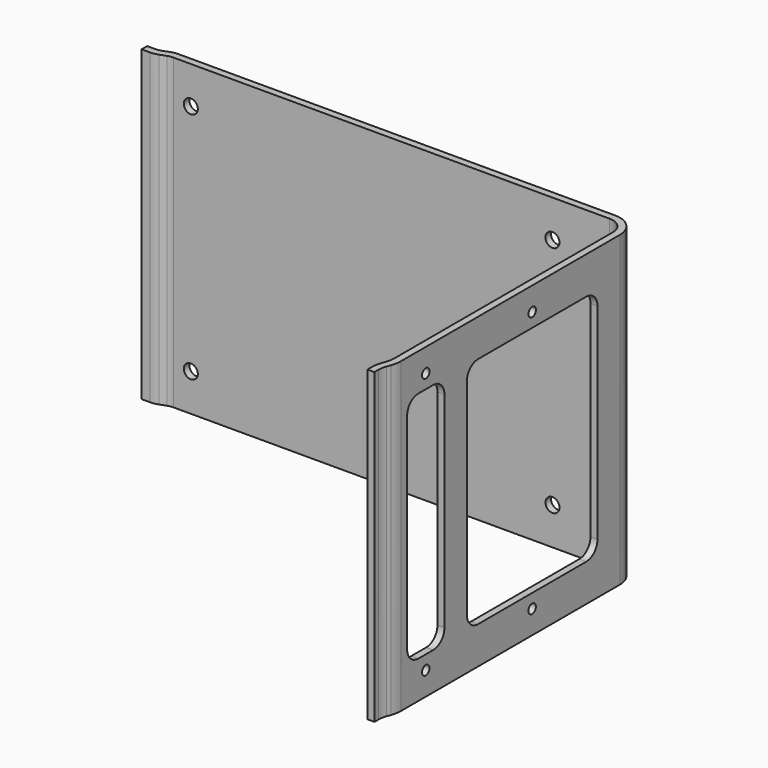
from build123d import *

# Parameters (mm, degrees)
F1_DEPTH  = 66
F2_R      = 1.5
F3_DEPTH  = 25
F4_R      = 1
F5_DEPTH  = 25
F6_R      = 5
F7_R      = 6.5
F8_W      = 7
F8_H      = 48
F9_DEPTH  = 100
F11_DEPTH = 66


with BuildPart() as f1:
    # F0 (on Top) → F1 (new body)
    with BuildSketch(Plane.XY):
        with BuildLine():
            Line((54.5, 33), (54.5, -26.488032))
            Line((54.5, -26.488032), (53.5, -29.23551))
            Line((53.5, -29.23551), (53.5, -31.5))
            Line((53.5, -31.5), (55, -31.5))
            Line((55, -31.5), (55, -29.5))
            Line((55, -29.5), (56, -26.752523))
            Line((56, -26.752523), (56, 33))
            ThreePointArc((56, 33), (54.535534, 36.535534), (51, 38))
            Line((51, 38), (-42.5, 38))
            ThreePointArc((-42.5, 38), (-46.035534, 36.535534), (-47.5, 33))
            Line((-47.5, 33), (-47.5, 0))
            Line((-47.5, 0), (-46, 0))
            Line((-46, 0), (-46, 33))
            ThreePointArc((-46, 33), (-44.974874, 35.474874), (-42.5, 36.5))
            Line((-42.5, 36.5), (51, 36.5))
            ThreePointArc((51, 36.5), (53.474874, 35.474874), (54.5, 33))
        make_face()
    extrude(amount=F1_DEPTH)

    # F2 (on face) → F3 (cut)
    with BuildSketch(Plane(origin=(0, 38, 0), x_dir=(-1, 0, 0), z_dir=(0, 1, 0))):
        with Locations((-38.75, 58)):
            Circle(F2_R)
        with Locations((-38.75, 8)):
            Circle(F2_R)
        with Locations((38.75, 8)):
            Circle(F2_R)
        with Locations((38.75, 58)):
            Circle(F2_R)
    extrude(amount=-F3_DEPTH, mode=Mode.SUBTRACT)

    # F4 (on face) → F5 (cut)
    with BuildSketch(Plane.YZ.offset(56)):
        with BuildLine():
            Line((-17, 58), (-21, 58))
            ThreePointArc((-21, 58), (-23.12132, 57.12132), (-24, 55))
            Line((-24, 55), (-24, 11))
            ThreePointArc((-24, 11), (-23.12132, 8.87868), (-21, 8))
            Line((-21, 8), (-17, 8))
            ThreePointArc((-17, 8), (-14.87868, 8.87868), (-14, 11))
            Line((-14, 11), (-14, 55))
            ThreePointArc((-14, 55), (-14.87868, 57.12132), (-17, 58))
        make_face()
        with BuildLine():
            Line((24, 58), (-5, 58))
            ThreePointArc((-5, 58), (-7.12132, 57.12132), (-8, 55))
            Line((-8, 55), (-8, 11))
            ThreePointArc((-8, 11), (-7.12132, 8.87868), (-5, 8))
            Line((-5, 8), (24, 8))
            ThreePointArc((24, 8), (26.12132, 8.87868), (27, 11))
            Line((27, 11), (27, 55))
            ThreePointArc((27, 55), (26.12132, 57.12132), (24, 58))
        make_face()
        with BuildLine():
            Line((-17, 58), (-21, 58))
            ThreePointArc((-21, 58), (-23.12132, 57.12132), (-24, 55))
            Line((-24, 55), (-24, 11))
            ThreePointArc((-24, 11), (-23.12132, 8.87868), (-21, 8))
            Line((-21, 8), (-17, 8))
            ThreePointArc((-17, 8), (-14.87868, 8.87868), (-14, 11))
            Line((-14, 11), (-14, 55))
            ThreePointArc((-14, 55), (-14.87868, 57.12132), (-17, 58))
        make_face()
        with BuildLine():
            Line((24, 58), (-5, 58))
            ThreePointArc((-5, 58), (-7.12132, 57.12132), (-8, 55))
            Line((-8, 55), (-8, 11))
            ThreePointArc((-8, 11), (-7.12132, 8.87868), (-5, 8))
            Line((-5, 8), (24, 8))
            ThreePointArc((24, 8), (26.12132, 8.87868), (27, 11))
            Line((27, 11), (27, 55))
            ThreePointArc((27, 55), (26.12132, 57.12132), (24, 58))
        make_face()
        with Locations((-19, 61)):
            Circle(F4_R)
        with Locations((9.5, 61)):
            Circle(F4_R)
        with Locations((9.5, 5)):
            Circle(F4_R)
        with Locations((-19, 5)):
            Circle(F4_R)
    extrude(amount=-F5_DEPTH, mode=Mode.SUBTRACT)

    # F6
    f6_edges = [f1.edges().sort_by_distance(p)[0] for p in [
        (55, -29.5, 33),
        (54.5, -26.488032, 33),
    ]]
    fillet(f6_edges, radius=F6_R)

    # F7
    f7_edges = [f1.edges().sort_by_distance(p)[0] for p in [
        (56, -26.752523, 33),
        (53.5, -29.23551, 33),
    ]]
    fillet(f7_edges, radius=F7_R)

    # F8 (on Top) → F9 (cut)
    with BuildSketch(Plane.XY):
        with Locations((-46, 19)):
            Rectangle(F8_W, F8_H)
    extrude(amount=F9_DEPTH, mode=Mode.SUBTRACT)

    # F10 (on Top) → F11 (join)
    with BuildSketch(Plane.XY):
        with BuildLine():
            Line((-48.496257, 37), (-48.496257, 35.5))
            Line((-48.496257, 35.5), (-46.746257, 35.5))
            ThreePointArc((-46.746257, 35.5), (-45.878016, 35.575961), (-45.036156, 35.801537))
            Line((-45.036156, 35.801537), (-43.697071, 36.288924))
            ThreePointArc((-43.697071, 36.288924), (-43.107769, 36.446827), (-42.5, 36.5))
            Line((-42.5, 36.5), (-42.5, 38))
            ThreePointArc((-42.5, 38), (-43.368241, 37.924039), (-44.210101, 37.698463))
            Line((-44.210101, 37.698463), (-45.549186, 37.211076))
            ThreePointArc((-45.549186, 37.211076), (-46.138488, 37.053173), (-46.746257, 37))
            Line((-46.746257, 37), (-48.496257, 37))
        make_face()
    extrude(amount=F11_DEPTH)


solid = f1.part
